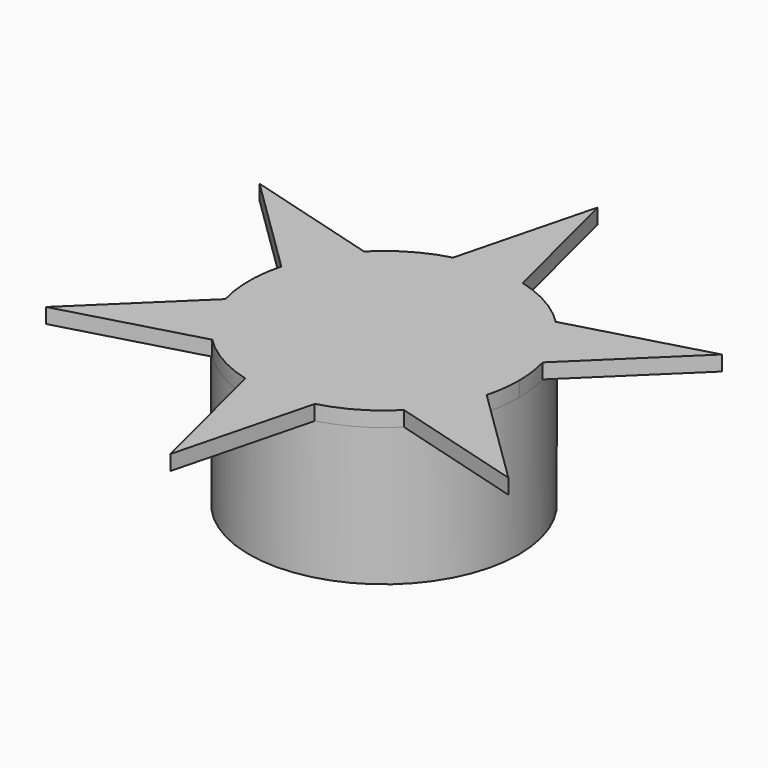
from build123d import *

# Parameters (mm, degrees)
F0_R     = 9
F0_R_2   = 7.5
F1_DEPTH = 8
F2_R     = 9
F3_DEPTH = 1.2
F5_DEPTH = 1


with BuildPart() as f1:
    # F0 (on Top) → F1 (new body)
    with BuildSketch(Plane.XY):
        Circle(F0_R)
        Circle(F0_R_2, mode=Mode.SUBTRACT)
    extrude(amount=F1_DEPTH)

    # F2 (on face) → F3 (join)
    with BuildSketch(Plane.XY.offset(8)):
        Circle(F2_R)
    extrude(amount=F3_DEPTH)

    # F4 (on face) → F5 (join)
    with BuildSketch(Plane.XY.offset(9.2)):
        Polygon((0, 17.7935510874), (-2.3382310135, 8.7057620125), (2.2824784298, 8.7057620125), align=None)
        Polygon((-15.4096672652, 8.8967755437), (-8.7085265689, 2.3279135486), (-6.3981718472, 6.32956531), align=None)
        Polygon((-15.4096672652, -8.8967755437), (-6.3702955553, -6.3778484639), (-8.680650277, -2.3761967025), align=None)
        Polygon((0, -17.7935510874), (2.3382310135, -8.7057620125), (-2.2824784298, -8.7057620125), align=None)
        Polygon((15.4096672652, -8.8967755437), (8.7085265689, -2.3279135486), (6.3981718472, -6.32956531), align=None)
        Polygon((15.4096672652, 8.8967755437), (6.3702955553, 6.3778484639), (8.680650277, 2.3761967025), align=None)
        with BuildLine():
            Line((2.2824784298, 8.7057620125), (-2.2824784298, 8.7057620125))
            ThreePointArc((-2.2824784298, 8.7057620125), (-4.5, 7.7942286341), (-6.3981718472, 6.32956531))
            Line((-6.3981718472, 6.32956531), (-8.680650277, 2.3761967025))
            ThreePointArc((-8.680650277, 2.3761967025), (-9, 0), (-8.680650277, -2.3761967025))
            Line((-8.680650277, -2.3761967025), (-6.3981718472, -6.32956531))
            ThreePointArc((-6.3981718472, -6.32956531), (-4.5, -7.7942286341), (-2.2824784298, -8.7057620125))
            Line((-2.2824784298, -8.7057620125), (2.2824784298, -8.7057620125))
            ThreePointArc((2.2824784298, -8.7057620125), (4.5, -7.7942286341), (6.3981718472, -6.32956531))
            Line((6.3981718472, -6.32956531), (8.680650277, -2.3761967025))
            ThreePointArc((8.680650277, -2.3761967025), (8.9198052807, -1.1987801106), (9, 0))
            ThreePointArc((9, 0), (8.9198052807, 1.1987801106), (8.680650277, 2.3761967025))
            Line((8.680650277, 2.3761967025), (6.3981718472, 6.32956531))
            ThreePointArc((6.3981718472, 6.32956531), (4.5, 7.7942286341), (2.2824784298, 8.7057620125))
        make_face()
    extrude(amount=F5_DEPTH)


solid = f1.part
